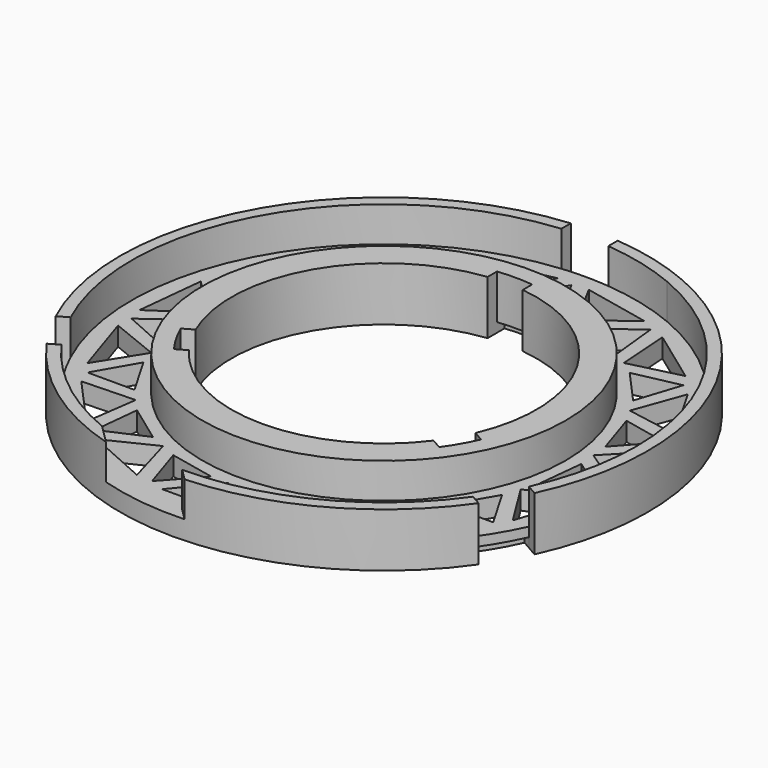
from build123d import *

# Parameters (mm, degrees)
F0_R      = 57.15
F2_DEPTH  = 4.064
F1_R      = 39.37
F1_R_2    = 33.02
F3_DEPTH  = 11.684
F5_D      = 66.04
F7_DEPTH  = 11.685
F9_DEPTH  = 2.032
F11_DEPTH = 7.62
F13_DEPTH = 4.065


with BuildPart() as f2:
    # F0 (on Top) → F2 (new body)
    with BuildSketch(Plane.XY):
        Circle(F0_R)
    extrude(amount=F2_DEPTH)

    # F1 (on Top) → F3 (join)
    with BuildSketch(Plane.XY):
        with BuildLine():
            ThreePointArc((26.9206593113, 50.4123060596), (13.8755037511, 55.4399936477), (0, 57.15))
            ThreePointArc((0, 57.15), (-40.4111525448, -40.4111525448), (57.15, 0))
            ThreePointArc((57.15, 0), (49.013458252, 29.3905326624), (26.9206593113, 50.4123060596))
        make_face()
        with BuildLine():
            ThreePointArc((54.61, 0), (-38.6151013206, -38.6151013206), (0, 54.61))
            ThreePointArc((0, 54.61), (10.7059811808, 53.550294742), (20.9964639346, 50.4123060596))
            ThreePointArc((20.9964639346, 50.4123060596), (45.4360484388, 30.2955046544), (54.61, 0))
        make_face(mode=Mode.SUBTRACT)
        Circle(F1_R)
        Circle(F1_R_2, mode=Mode.SUBTRACT)
    extrude(amount=F3_DEPTH)

    # F5 (through all)
    with Locations(Plane(origin=(0, 0, 0), x_dir=(1, 0, 0), z_dir=(0, 0, -1))):
        with Locations((0, 0)):
            Hole(F5_D / 2)

    # F6 (on Top) → F7 (cut, through all)
    with BuildSketch(Plane.XY):
        with BuildLine():
            Line((-46.757434771, -32.8612962866), (-44.5485790293, -31.5860128296))
            ThreePointArc((-44.5485790293, -31.5860128296), (-47.2936473007, -27.305), (-49.6285790293, -22.7871947271))
            Line((-49.6285790293, -22.7871947271), (-51.837434771, -24.0624781842))
            ThreePointArc((-51.837434771, -24.0624781842), (-49.4933518263, -28.575), (-46.757434771, -32.8612962866))
        make_face()
        with BuildLine():
            Line((-28.7135911662, -20.9772086404), (-26.5001619429, -19.6992846825))
            ThreePointArc((-26.5001619429, -19.6992846825), (-28.596158833, -16.51), (-30.3101619429, -13.1001711057))
            Line((-30.3101619429, -13.1001711057), (-32.5235911662, -14.3780950636))
            ThreePointArc((-32.5235911662, -14.3780950636), (-30.7958633586, -17.78), (-28.7135911662, -20.9772086404))
        make_face()
        with BuildLine():
            Line((32.5235911662, -14.3780950636), (30.3101619429, -13.1001711057))
            ThreePointArc((30.3101619429, -13.1001711057), (28.596158833, -16.51), (26.5001619429, -19.6992846825))
            Line((26.5001619429, -19.6992846825), (28.7135911662, -20.9772086404))
            ThreePointArc((28.7135911662, -20.9772086404), (30.7958633586, -17.78), (32.5235911662, -14.3780950636))
        make_face()
        with BuildLine():
            Line((51.837434771, -24.0624781842), (49.6285790293, -22.7871947271))
            ThreePointArc((49.6285790293, -22.7871947271), (47.2936473007, -27.305), (44.5485790293, -31.5860128296))
            Line((44.5485790293, -31.5860128296), (46.757434771, -32.8612962866))
            ThreePointArc((46.757434771, -32.8612962866), (49.4933518263, -28.575), (51.837434771, -24.0624781842))
        make_face()
        with BuildLine():
            Line((-3.81, 35.355303704), (-3.81, 32.7994557882))
            ThreePointArc((-3.81, 32.7994557882), (0, 33.02), (3.81, 32.7994557882))
            Line((3.81, 32.7994557882), (3.81, 35.355303704))
            ThreePointArc((3.81, 35.355303704), (0, 35.56), (-3.81, 35.355303704))
        make_face()
        with BuildLine():
            ThreePointArc((5.08, 56.9237744708), (0, 57.15), (-5.08, 56.9237744708))
            Line((-5.08, 56.9237744708), (-5.08, 54.3732075567))
            ThreePointArc((-5.08, 54.3732075567), (0, 54.61), (5.08, 54.3732075567))
            Line((5.08, 54.3732075567), (5.08, 56.9237744708))
        make_face()
    extrude(amount=F7_DEPTH, mode=Mode.SUBTRACT)

    # F8 (on face) → F9 (cut)
    with BuildSketch(Plane(origin=(0, 0, 0), x_dir=(1, 0, 0), z_dir=(0, 0, -1))):
        with BuildLine():
            ThreePointArc((3.81, -35.355303704), (0, -35.56), (-3.81, -35.355303704))
            Line((-3.81, -35.355303704), (-3.81, -37.387303704))
            ThreePointArc((-3.81, -37.387303704), (0, -37.5809337065), (3.81, -37.387303704))
            Line((3.81, -37.387303704), (3.81, -35.355303704))
        make_face()
        with BuildLine():
            Line((-5.08, -52.3412075567), (-5.08, -54.3732075567))
            ThreePointArc((-5.08, -54.3732075567), (0, -54.61), (5.08, -54.3732075567))
            Line((5.08, -54.3732075567), (5.08, -52.3412075567))
            ThreePointArc((5.08, -52.3412075567), (0, -52.5871506025), (-5.08, -52.3412075567))
        make_face()
        with BuildLine():
            Line((32.5235911662, 14.3780950636), (34.2833547866, 15.3940950636))
            ThreePointArc((34.2833547866, 15.3940950636), (32.5460432878, 18.7904668533), (30.4733547866, 21.9932086404))
            Line((30.4733547866, 21.9932086404), (28.7135911662, 20.9772086404))
            ThreePointArc((28.7135911662, 20.9772086404), (30.7958633586, 17.78), (32.5235911662, 14.3780950636))
        make_face()
        with BuildLine():
            ThreePointArc((42.7888154088, 30.5700128296), (45.5418083344, 26.2935753012), (47.8688154088, 21.7711947271))
            Line((47.8688154088, 21.7711947271), (49.6285790293, 22.7871947271))
            ThreePointArc((49.6285790293, 22.7871947271), (47.2936473007, 27.305), (44.5485790293, 31.5860128296))
            Line((44.5485790293, 31.5860128296), (42.7888154088, 30.5700128296))
        make_face()
        with BuildLine():
            Line((-28.7135911662, 20.9772086404), (-30.4733547866, 21.9932086404))
            ThreePointArc((-30.4733547866, 21.9932086404), (-32.5460432878, 18.7904668533), (-34.2833547866, 15.3940950636))
            Line((-34.2833547866, 15.3940950636), (-32.5235911662, 14.3780950636))
            ThreePointArc((-32.5235911662, 14.3780950636), (-30.7958633586, 17.78), (-28.7135911662, 20.9772086404))
        make_face()
        with BuildLine():
            ThreePointArc((-47.8688154088, 21.7711947271), (-45.5418083344, 26.2935753012), (-42.7888154088, 30.5700128296))
            Line((-42.7888154088, 30.5700128296), (-44.5485790293, 31.5860128296))
            ThreePointArc((-44.5485790293, 31.5860128296), (-47.2936473007, 27.305), (-49.6285790293, 22.7871947271))
            Line((-49.6285790293, 22.7871947271), (-47.8688154088, 21.7711947271))
        make_face()
    extrude(amount=-F9_DEPTH, mode=Mode.SUBTRACT)

    # F10 (on face) → F11 (cut)
    with BuildSketch(Plane.XY.offset(11.684)):
        with BuildLine():
            Line((2.4859084286, -57.0959084286), (0, -54.61))
            ThreePointArc((0, -54.61), (-10.4807724417, -53.59482726), (-20.571880189, -50.5870521526))
            Line((-20.571880189, -50.5870521526), (-16.4179725703, -54.7409597713))
            ThreePointArc((-16.4179725703, -54.7409597713), (-7.0648459719, -56.7116429968), (2.4859084286, -57.0959084286))
        make_face()
    extrude(amount=-F11_DEPTH, mode=Mode.SUBTRACT)

    # F12 (on face) → F13 (cut, through all)
    with BuildSketch(Plane.XY.offset(4.064)):
        Polygon((0, 50.7088181024), (-5.08, 41.91), (5.08, 41.91), align=None)
        Polygon((-21.6871436361, 36.220467983), (-12.4055217865, 40.3529122766), (-20.6251344493, 46.3248104399), align=None)
        Polygon((-34.5443831161, 24.2680879991), (-27.7460161555, 31.8184394259), (-37.6839957789, 33.9308222046), align=None)
        Polygon((-41.4285849294, 8.1195351315), (-38.2889722665, 17.782269337), (-48.22695189, 15.6698865583), align=None)
        Polygon((-41.1494080415, -9.432959124), (-42.2114172283, 0.6713833329), (-50.4310298911, -5.3005148304), align=None)
        Polygon((-33.7551246726, -25.3544090512), (-38.8351246726, -16.5555909488), (-43.9151246726, -25.3544090512), align=None)
        Polygon((-20.5242735922, -36.8918513159), (-28.743886255, -30.9199531526), (-29.8058954418, -41.0242956095), align=None)
        Polygon((-3.7445891504, -42.0503573361), (-13.6825687739, -39.9379745574), (-10.5429561111, -49.600708763), align=None)
        Polygon((13.6825687739, -39.9379745574), (3.7445891504, -42.0503573361), (10.5429561111, -49.600708763), align=None)
        Polygon((28.743886255, -30.9199531526), (20.5242735922, -36.8918513159), (29.8058954418, -41.0242956095), align=None)
        Polygon((38.8351246726, -16.5555909488), (33.7551246726, -25.3544090512), (43.9151246726, -25.3544090512), align=None)
        Polygon((42.2114172283, 0.6713833329), (41.1494080415, -9.432959124), (50.4310298911, -5.3005148304), align=None)
        Polygon((38.2889722665, 17.782269337), (41.4285849294, 8.1195351315), (48.22695189, 15.6698865583), align=None)
        Polygon((27.7460161555, 31.8184394259), (34.5443831161, 24.2680879991), (37.6839957789, 33.9308222046), align=None)
        Polygon((12.4055217865, 40.3529122766), (21.6871436361, 36.220467983), (20.6251344493, 46.3248104399), align=None)
        Polygon((7.3743431986, -50.8387573361), (0, -42.0503573361), (-7.3743431986, -50.8387573361), align=None)
        Polygon((13.9411877648, -49.4429314341), (27.4147832292, -43.4441002391), (17.103421183, -38.4149129366), align=None)
        Polygon((32.846160712, -39.4979735122), (42.714958184, -28.5375635335), (31.2495054638, -28.1371811019), align=None)
        Polygon((46.0717340741, -22.7234571422), (50.6293288156, -8.6966228373), (39.992266357, -12.9942750364), align=None)
        Polygon((51.3310860662, -2.0198485962), (49.7894285419, 12.6480429538), (41.8200010788, 4.3954592322), align=None)
        Polygon((47.7148269492, 19.0330101218), (40.3404837506, 31.8057472143), (36.4166776913, 21.0251786681), align=None)
        Polygon((35.8482407771, 36.7948884803), (23.916302837, 45.4639488353), (24.7165798958, 34.0194537045), align=None)
        Polygon((17.7831681036, 48.1945963495), (3.3567758901, 51.2610206757), (8.7427608932, 41.1314561383), align=None)
        Polygon((-3.3567758901, 51.2610206757), (-17.7831681036, 48.1945963495), (-8.7427608932, 41.1314561383), align=None)
        Polygon((-23.916302837, 45.4639488353), (-35.8482407771, 36.7948884803), (-24.7165798958, 34.0194537045), align=None)
        Polygon((-40.3404837506, 31.8057472143), (-47.7148269492, 19.0330101218), (-36.4166776913, 21.0251786681), align=None)
        Polygon((-49.7894285419, 12.6480429538), (-51.3310860662, -2.0198485962), (-41.8200010788, 4.3954592322), align=None)
        Polygon((-50.6293288156, -8.6966228373), (-46.0717340741, -22.7234571422), (-39.992266357, -12.9942750364), align=None)
        Polygon((-42.714958184, -28.5375635335), (-32.846160712, -39.4979735122), (-31.2495054638, -28.1371811019), align=None)
        Polygon((-27.4147832292, -43.4441002391), (-13.9411877648, -49.4429314341), (-17.103421183, -38.4149129366), align=None)
    extrude(amount=-F13_DEPTH, mode=Mode.SUBTRACT)


solid = f2.part
